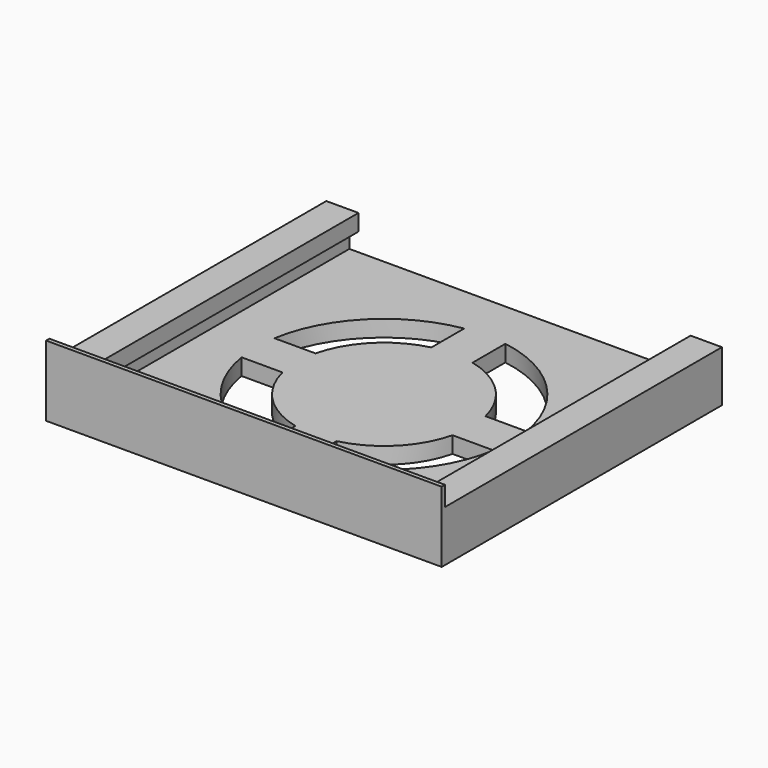
from build123d import *

# Parameters (mm, degrees)
F0_W      = 121.92
F0_H      = 107.95
F1_DEPTH  = 38.1
F2_W      = 101.854
F2_H      = 101.854
F3_DEPTH  = 30.48
F5_DEPTH  = 25.4
F7_DEPTH  = 106.68
F8_W      = 121.92
F8_H      = 16.3267194241
F9_DEPTH  = 25.4
F10_DEPTH = 25.4


with BuildPart() as f1:
    # F0 (on Top) → F1 (new body)
    with BuildSketch(Plane.XY):
        Rectangle(F0_W, F0_H)
    extrude(amount=F1_DEPTH)

    # F2 (on face) → F3 (cut)
    with BuildSketch(Plane.XY.offset(38.1)):
        Rectangle(F2_W, F2_H)
    extrude(amount=-F3_DEPTH, mode=Mode.SUBTRACT)

    # F4 (on face) → F5 (cut)
    with BuildSketch(Plane(origin=(0, 0, 0), x_dir=(1, 0, 0), z_dir=(0, 0, -1))):
        with BuildLine():
            Line((-6.35, 26.193887236), (-6.35, 38.8158181091))
            ThreePointArc((-6.35, 38.8158181091), (-27.8117801972, 27.8117801972), (-38.8158181091, 6.35))
            Line((-38.8158181091, 6.35), (-26.193887236, 6.35))
            ThreePointArc((-26.193887236, 6.35), (-19.0583607445, 19.0583607445), (-6.35, 26.193887236))
        make_face()
        with BuildLine():
            Line((-26.193887236, -6.35), (-38.8158181091, -6.35))
            ThreePointArc((-38.8158181091, -6.35), (-27.8117801972, -27.8117801972), (-6.35, -38.8158181091))
            Line((-6.35, -38.8158181091), (-6.35, -26.193887236))
            ThreePointArc((-6.35, -26.193887236), (-19.0583607445, -19.0583607445), (-26.193887236, -6.35))
        make_face()
        with BuildLine():
            ThreePointArc((38.8158181091, 6.35), (27.8117801972, 27.8117801972), (6.35, 38.8158181091))
            Line((6.35, 38.8158181091), (6.35, 26.193887236))
            ThreePointArc((6.35, 26.193887236), (19.0583607445, 19.0583607445), (26.193887236, 6.35))
            Line((26.193887236, 6.35), (38.8158181091, 6.35))
        make_face()
        with BuildLine():
            ThreePointArc((26.193887236, -6.35), (19.0583607445, -19.0583607445), (6.35, -26.193887236))
            Line((6.35, -26.193887236), (6.35, -38.8158181091))
            ThreePointArc((6.35, -38.8158181091), (27.8117801972, -27.8117801972), (38.8158181091, -6.35))
            Line((38.8158181091, -6.35), (26.193887236, -6.35))
        make_face()
    extrude(amount=-F5_DEPTH, mode=Mode.SUBTRACT)

    # F6 (on face) → F7 (cut)
    with BuildSketch(Plane(origin=(0, 53.975, 0), x_dir=(-1, 0, 0), z_dir=(0, 1, 0))):
        Polygon((60.96, 15.748), (60.96, 38.1), (-60.96, 38.1), (-60.96, 15.748), (-51.308, 15.748), (-51.308, 10.668), (-53.848, 10.668), (-53.848, 5.08), (53.848, 5.08), (53.848, 10.668), (51.054, 10.668), (51.054, 15.748), align=None)
    extrude(amount=-F7_DEPTH, mode=Mode.SUBTRACT)

    # F8 (on face) → F9 (cut)
    with BuildSketch(Plane(origin=(0, -52.705, 0), x_dir=(-1, 0, 0), z_dir=(0, 1, 0))):
        with Locations((0, 29.9366402879)):
            Rectangle(F8_W, F8_H)
    extrude(amount=-F9_DEPTH, mode=Mode.SUBTRACT)

    # F4 (on face) → F10 (cut)
    with BuildSketch(Plane(origin=(0, 0, 0), x_dir=(1, 0, 0), z_dir=(0, 0, -1))):
        with BuildLine():
            Line((-6.35, 26.193887236), (-6.35, 38.8158181091))
            ThreePointArc((-6.35, 38.8158181091), (-27.8117801972, 27.8117801972), (-38.8158181091, 6.35))
            Line((-38.8158181091, 6.35), (-26.193887236, 6.35))
            ThreePointArc((-26.193887236, 6.35), (-19.0583607445, 19.0583607445), (-6.35, 26.193887236))
        make_face()
        with BuildLine():
            Line((-26.193887236, -6.35), (-38.8158181091, -6.35))
            ThreePointArc((-38.8158181091, -6.35), (-27.8117801972, -27.8117801972), (-6.35, -38.8158181091))
            Line((-6.35, -38.8158181091), (-6.35, -26.193887236))
            ThreePointArc((-6.35, -26.193887236), (-19.0583607445, -19.0583607445), (-26.193887236, -6.35))
        make_face()
        with BuildLine():
            ThreePointArc((38.8158181091, 6.35), (27.8117801972, 27.8117801972), (6.35, 38.8158181091))
            Line((6.35, 38.8158181091), (6.35, 26.193887236))
            ThreePointArc((6.35, 26.193887236), (19.0583607445, 19.0583607445), (26.193887236, 6.35))
            Line((26.193887236, 6.35), (38.8158181091, 6.35))
        make_face()
        with BuildLine():
            ThreePointArc((26.193887236, -6.35), (19.0583607445, -19.0583607445), (6.35, -26.193887236))
            Line((6.35, -26.193887236), (6.35, -38.8158181091))
            ThreePointArc((6.35, -38.8158181091), (27.8117801972, -27.8117801972), (38.8158181091, -6.35))
            Line((38.8158181091, -6.35), (26.193887236, -6.35))
        make_face()
    extrude(amount=-F10_DEPTH, mode=Mode.SUBTRACT)


solid = f1.part
